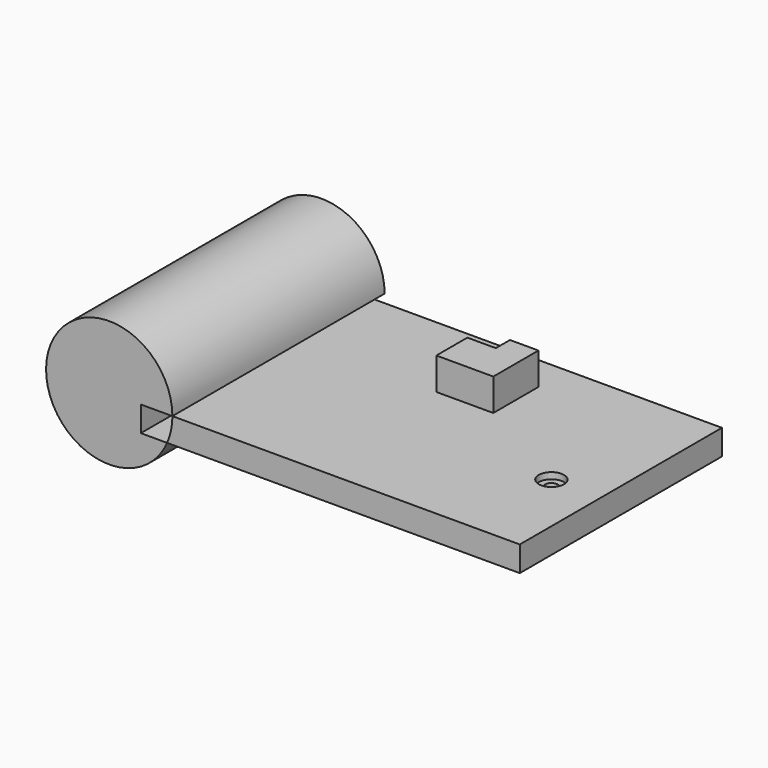
from build123d import *

# Parameters (mm, degrees)
F1_DEPTH       = 200
F2_DEPTH       = 10
F4_D           = 10
F4_CBORE_D     = 20
F4_CBORE_DEPTH = 5
F5_W           = 22.5431323051
F5_H           = 15.3391379863
F5_H_2         = 13.9755383134
F6_DEPTH       = 25.4


with BuildPart() as f1:
    # F0 (on Front) → F1 (new body)
    with BuildSketch(Plane.XZ):
        with BuildLine():
            Line((25, 0), (50, 0))
            ThreePointArc((50, 0), (-48.9453156465, 10.2154821845), (45.8257569496, -20))
            Line((45.8257569496, -20), (25, -20))
            Line((25, -20), (25, 0))
        make_face()
    extrude(amount=F1_DEPTH)

    # F2 (add): a face of the model
    f2_faces = [f1.faces().sort_by_distance(p)[0] for p in [
        (-2.3595573385, 0, 0.6216546396),
    ]]


with BuildPart() as f1b:
    # F0 (on Front) → F1, piece 2 (new body)
    with BuildSketch(Plane.XZ):
        with BuildLine():
            Line((325, 0), (50, 0))
            ThreePointArc((50, 0), (48.9453156465, -10.2154821845), (45.8257569496, -20))
            Line((45.8257569496, -20), (325, -20))
            Line((325, -20), (325, 0))
        make_face()
    extrude(amount=F1_DEPTH)


with BuildPart() as f1_1:
    add(f1.part)

    add(f1b.part)  # F2 merges F1b
    extrude(f2_faces, amount=F2_DEPTH)

    # F4 (through all)
    with Locations(Plane.XY):
        with Locations((286, -120)):
            CounterBoreHole(F4_D / 2, F4_CBORE_D / 2, F4_CBORE_DEPTH)

    # F5 (on face) → F6 (join)
    with BuildSketch(Plane.XY):
        Polygon((157.201975584, -42.1456806362), (157.201975584, -72.8239566088), (202.2882401943, -72.8239566088), (202.2882401943, -57.4848186225), (179.7451078892, -57.4848186225), (179.7451078892, -42.1456806362), align=None)
        with Locations((191.0166740417, -49.8152496293)):
            Rectangle(F5_W, F5_H)
        with Locations((191.0166740417, -35.1579114795)):
            Rectangle(F5_W, F5_H_2)
    extrude(amount=F6_DEPTH)


solid = f1_1.part
